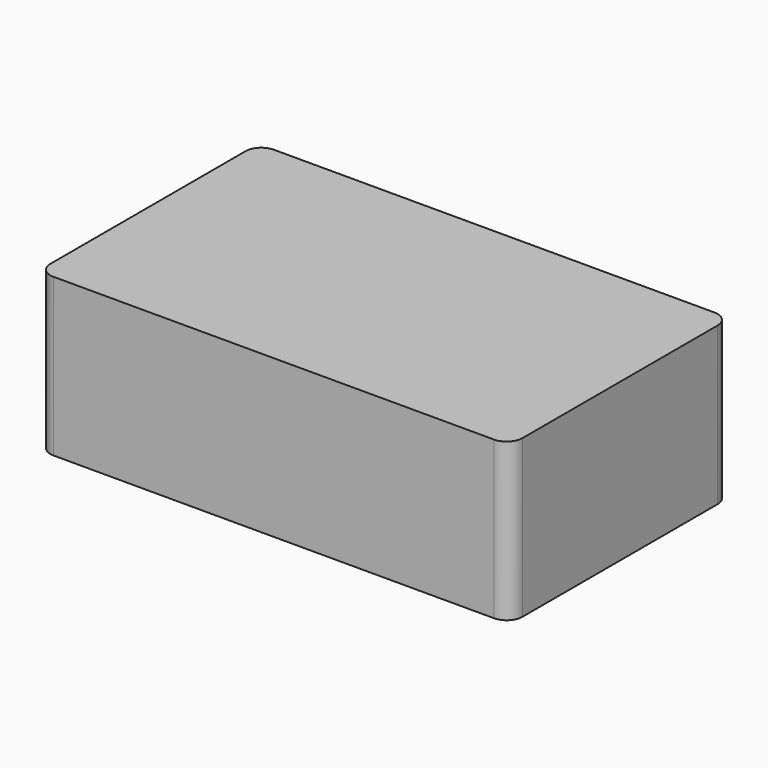
from build123d import *

# Parameters (mm, degrees)
F1_DEPTH = 100
F2_DEPTH = 9


with BuildPart() as f1:
    # F0 (on Top) → F1 (new body)
    with BuildSketch(Plane.XY):
        with BuildLine():
            ThreePointArc((150, 77.5), (147.071068, 84.571068), (140, 87.5))
            Line((140, 87.5), (-140, 87.5))
            ThreePointArc((-140, 87.5), (-147.071068, 84.571068), (-150, 77.5))
            Line((-150, 77.5), (-150, -77.5))
            ThreePointArc((-150, -77.5), (-147.071068, -84.571068), (-140, -87.5))
            Line((-140, -87.5), (140, -87.5))
            ThreePointArc((140, -87.5), (147.071068, -84.571068), (150, -77.5))
            Line((150, -77.5), (150, 77.5))
        make_face()
        with BuildLine():
            ThreePointArc((140, 82.5), (143.535534, 81.035534), (145, 77.5))
            Line((145, 77.5), (145, -77.5))
            ThreePointArc((145, -77.5), (143.535534, -81.035534), (140, -82.5))
            Line((140, -82.5), (-140, -82.5))
            ThreePointArc((-140, -82.5), (-143.535534, -81.035534), (-145, -77.5))
            Line((-145, -77.5), (-145, 77.5))
            ThreePointArc((-145, 77.5), (-143.535534, 81.035534), (-140, 82.5))
            Line((-140, 82.5), (140, 82.5))
        make_face(mode=Mode.SUBTRACT)
    extrude(amount=-F1_DEPTH)

    # F0 (on Top) → F2 (join)
    with BuildSketch(Plane.XY):
        with BuildLine():
            Line((145, -77.5), (145, 77.5))
            ThreePointArc((145, 77.5), (143.535534, 81.035534), (140, 82.5))
            Line((140, 82.5), (-140, 82.5))
            ThreePointArc((-140, 82.5), (-143.535534, 81.035534), (-145, 77.5))
            Line((-145, 77.5), (-145, -77.5))
            ThreePointArc((-145, -77.5), (-143.535534, -81.035534), (-140, -82.5))
            Line((-140, -82.5), (140, -82.5))
            ThreePointArc((140, -82.5), (143.535534, -81.035534), (145, -77.5))
        make_face()
    extrude(amount=-F2_DEPTH)


solid = f1.part
